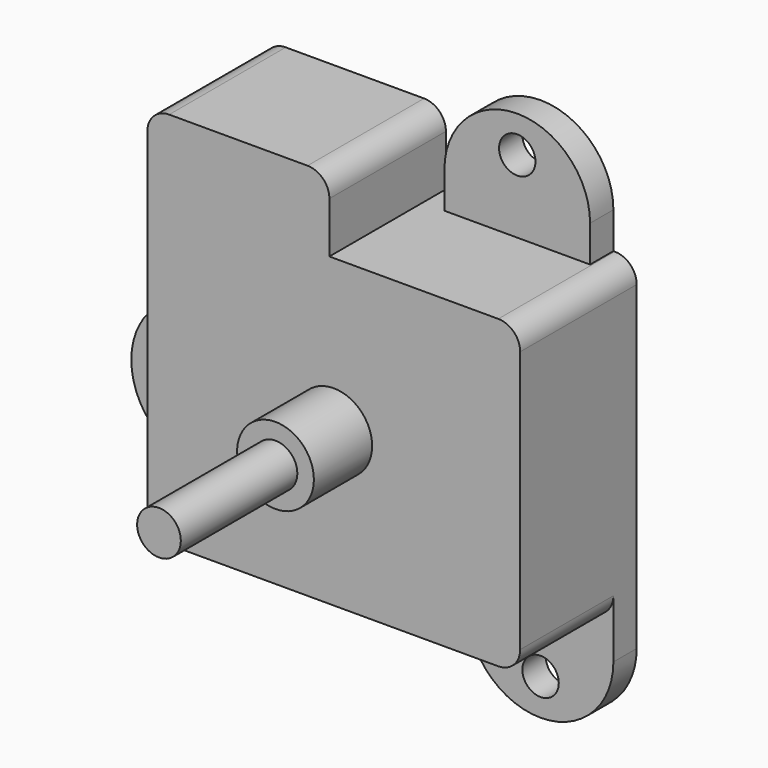
from build123d import *

# Parameters (mm, degrees)
F0_W          = 65.024
F0_H          = 53.34
F1_DEPTH      = 12.7
F1_DEPTH_BACK = 12.7
F2_W          = 31.75
F2_H          = 12.7
F3_DEPTH      = 25.4
F4_W          = 25.4
F4_H          = 6.35
F5_DEPTH      = 5.08
F7_W          = 12.7
F7_H          = 5.08
F8_ANGLE      = 180
F9_R          = 3.175
F10_DEPTH     = 25.4
F11_W         = 5.08
F11_H         = 25.4
F12_DEPTH     = 6.35
F13_W         = 5.08
F13_H         = 12.7
F15_R         = 3.175
F16_DEPTH     = 25.4
F17_W         = 25.4
F17_H         = 5.08
F18_DEPTH     = 6.35
F19_W         = 12.7
F19_H         = 5.08
F21_R         = 3.175
F22_DEPTH     = 25.4
F23_R         = 3.81
F24_R         = 6.6929
F24_R_2       = 2.54
F25_DEPTH     = 12.7
F26_R         = 3.81
F27_DEPTH     = 38.1


with BuildPart() as f1:
    # F0 (on Front) → F1 (new body, two sides)
    with BuildSketch(Plane.XZ) as f1_sk:
        Rectangle(F0_W, F0_H)
    extrude(amount=F1_DEPTH)
    extrude(f1_sk.sketch, amount=-F1_DEPTH_BACK)

    # F2 (on face) → F3 (join)
    with BuildSketch(Plane.XZ.offset(12.7)):
        with Locations((-16.637, 33.02)):
            Rectangle(F2_W, F2_H)
    extrude(amount=-F3_DEPTH)

    # F4 (on face) → F5 (join)
    with BuildSketch(Plane(origin=(0, 12.7, 0), x_dir=(-1, 0, 0), z_dir=(0, 1, 0))):
        with Locations((-15.748, 29.845)):
            Rectangle(F4_W, F4_H)
    extrude(amount=-F5_DEPTH)

    # F7 (on face) → F8 (revolve)
    with BuildSketch(Plane.XY.offset(33.02)):
        with Locations((22.098, 10.16)):
            Rectangle(F7_W, F7_H)
    revolve(axis=Axis((15.748, 10.16, 33.02), (0, -1, 0)), revolution_arc=F8_ANGLE)

    # F9 (on face) → F10 (cut)
    with BuildSketch(Plane(origin=(0, 12.7, 0), x_dir=(-1, 0, 0), z_dir=(0, 1, 0))):
        with Locations((-15.748, 39.37)):
            Circle(F9_R)
    extrude(amount=-F10_DEPTH, mode=Mode.SUBTRACT)

    # F11 (on face) → F12 (join)
    with BuildSketch(Plane(origin=(-32.512, 0, 0), x_dir=(0, -1, 0), z_dir=(-1, 0, 0))):
        with Locations((-10.16, -13.97)):
            Rectangle(F11_W, F11_H)
    extrude(amount=F12_DEPTH)

    # F13 (on face) → F14 (revolve)
    with BuildSketch(Plane(origin=(-38.862, 0, 0), x_dir=(0, -1, 0), z_dir=(-1, 0, 0))):
        with Locations((-10.16, -7.62)):
            Rectangle(F13_W, F13_H)
    revolve(axis=Axis((-38.862, 10.16, -13.97), (0, -1, 0)))

    # F15 (on face) → F16 (cut)
    with BuildSketch(Plane.XZ.offset(-7.62)):
        with Locations((-45.212, -13.97)):
            Circle(F15_R)
    extrude(amount=-F16_DEPTH, mode=Mode.SUBTRACT)

    # F17 (on face) → F18 (join)
    with BuildSketch(Plane(origin=(0, 0, -26.67), x_dir=(1, 0, 0), z_dir=(0, 0, -1))):
        with Locations((19.812, -10.16)):
            Rectangle(F17_W, F17_H)
    extrude(amount=F18_DEPTH)

    # F19 (on face) → F20 (revolve)
    with BuildSketch(Plane(origin=(0, 0, -33.02), x_dir=(1, 0, 0), z_dir=(0, 0, -1))):
        with Locations((13.462, -10.16)):
            Rectangle(F19_W, F19_H)
    revolve(axis=Axis((19.812, 10.16, -33.02), (0, -1, 0)))

    # F21 (on face) → F22 (cut)
    with BuildSketch(Plane.XZ.offset(-7.62)):
        with Locations((19.812, -39.37)):
            Circle(F21_R)
    extrude(amount=-F22_DEPTH, mode=Mode.SUBTRACT)

    # F23
    f23_edges = [f1.edges().sort_by_distance(p)[0] for p in [
        (-0.762, 0, 39.37),
        (-32.512, 0, 39.37),
        (32.512, 0, 26.67),
        (32.512, -2.54, -26.67),
        (-32.512, -2.54, -26.67),
    ]]
    fillet(f23_edges, radius=F23_R)

    # F24 (on face) → F25 (join)
    with BuildSketch(Plane.XZ.offset(12.7)):
        Circle(F24_R)
        Circle(F24_R_2, mode=Mode.SUBTRACT)
    extrude(amount=F25_DEPTH)

    # F26 (on face) → F27 (join)
    with BuildSketch(Plane.XZ.offset(12.7)):
        Circle(F26_R)
    extrude(amount=F27_DEPTH)


solid = f1.part
